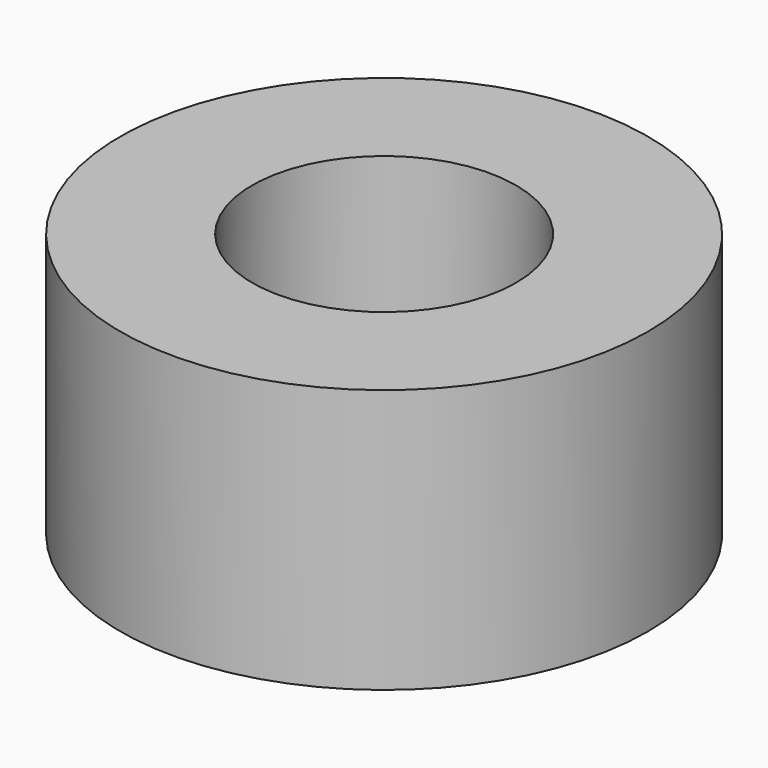
from build123d import *

# Parameters (mm, degrees)
SKETCH_R   = 6
SKETCH_R_2 = 3
PAD_DEPTH  = 6


with BuildPart() as part:
    # Sketch → Pad (new body)
    with BuildSketch(Plane.XY):
        Circle(SKETCH_R)
        Circle(SKETCH_R_2, mode=Mode.SUBTRACT)
    extrude(amount=PAD_DEPTH)


solid = part.part
